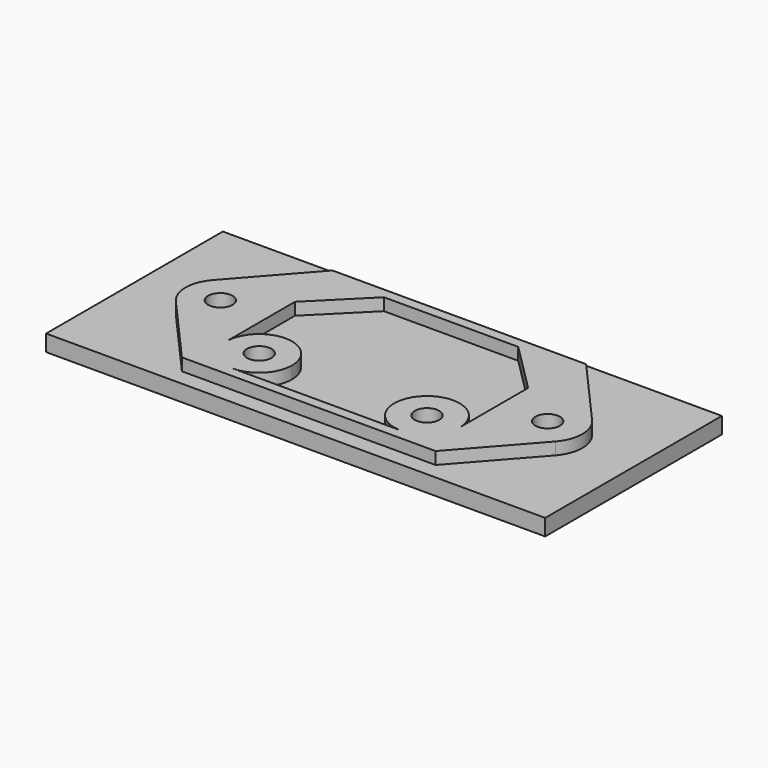
from build123d import *

# Parameters (mm, degrees)
F0_W     = 61
F0_H     = 27
F0_R     = 1.5
F0_W_2   = 31
F0_H_2   = 23
F1_DEPTH = 2
F2_DEPTH = 3.5


with BuildPart() as f1:
    # F0 (on Top) → F1 (new body)
    with BuildSketch(Plane.XY):
        Rectangle(F0_W, F0_H)
        with BuildLine():
            Line((23.18302, -2.816182), (15.5, -11.5))
            Line((15.5, -11.5), (-15.5, -11.5))
            Line((-15.5, -11.5), (-23.18302, -2.816182))
            ThreePointArc((-23.18302, -2.816182), (-24.25, 0), (-23.18302, 2.816182))
            Line((-23.18302, 2.816182), (-15.5, 11.5))
            Line((-15.5, 11.5), (15.5, 11.5))
            Line((15.5, 11.5), (23.18302, 2.816182))
            ThreePointArc((23.18302, 2.816182), (24.25, 0), (23.18302, -2.816182))
        make_face(mode=Mode.SUBTRACT)
        with BuildLine():
            Line((-23.18302, -2.816182), (-15.5, -11.5))
            Line((-15.5, -11.5), (-15.5, 11.5))
            Line((-15.5, 11.5), (-23.18302, 2.816182))
            ThreePointArc((-23.18302, 2.816182), (-24.25, 0), (-23.18302, -2.816182))
        make_face()
        with Locations((-20, 0)):
            Circle(F0_R, mode=Mode.SUBTRACT)
        with BuildLine():
            Line((-8.313508, -9.75), (8.313508, -9.75))
            ThreePointArc((8.313508, -9.75), (7.421573, -3.421573), (13.75, -4.313508))
            Line((13.75, -4.313508), (13.75, 4))
            Line((13.75, 4), (8, 9.75))
            Line((8, 9.75), (-8, 9.75))
            Line((-8, 9.75), (-13.75, 4))
            Line((-13.75, 4), (-13.75, -4.313508))
            ThreePointArc((-13.75, -4.313508), (-9.25, -2.377017), (-6.25, -6.25))
            ThreePointArc((-6.25, -6.25), (-6.80428, -8.281506), (-8.313508, -9.75))
        make_face()
        Rectangle(F0_W_2, F0_H_2)
        with BuildLine():
            ThreePointArc((14.25, -6.25), (13.078427, -9.078427), (10.25, -10.25))
            Line((10.25, -10.25), (-10.25, -10.25))
            ThreePointArc((-10.25, -10.25), (-13.078427, -9.078427), (-14.25, -6.25))
            Line((-14.25, -6.25), (-14.25, 4.207107))
            Line((-14.25, 4.207107), (-8.207107, 10.25))
            Line((-8.207107, 10.25), (8.207107, 10.25))
            Line((8.207107, 10.25), (14.25, 4.207107))
            Line((14.25, 4.207107), (14.25, -6.25))
        make_face(mode=Mode.SUBTRACT)
        with BuildLine():
            ThreePointArc((10.25, -10.25), (9.25, -10.122983), (8.313508, -9.75))
            Line((8.313508, -9.75), (-8.313508, -9.75))
            ThreePointArc((-8.313508, -9.75), (-9.25, -10.122983), (-10.25, -10.25))
            Line((-10.25, -10.25), (10.25, -10.25))
        make_face()
        with BuildLine():
            Line((15.5, 11.5), (15.5, -11.5))
            Line((15.5, -11.5), (23.18302, -2.816182))
            ThreePointArc((23.18302, -2.816182), (24.25, 0), (23.18302, 2.816182))
            Line((23.18302, 2.816182), (15.5, 11.5))
        make_face()
        with Locations((20, 0)):
            Circle(F0_R, mode=Mode.SUBTRACT)
        with BuildLine():
            Line((-8.313508, -9.75), (8.313508, -9.75))
            ThreePointArc((8.313508, -9.75), (7.421573, -3.421573), (13.75, -4.313508))
            Line((13.75, -4.313508), (13.75, 4))
            Line((13.75, 4), (8, 9.75))
            Line((8, 9.75), (-8, 9.75))
            Line((-8, 9.75), (-13.75, 4))
            Line((-13.75, 4), (-13.75, -4.313508))
            ThreePointArc((-13.75, -4.313508), (-9.25, -2.377017), (-6.25, -6.25))
            ThreePointArc((-6.25, -6.25), (-6.80428, -8.281506), (-8.313508, -9.75))
        make_face()
        with BuildLine():
            Line((13.75, 4), (13.75, -4.313508))
            ThreePointArc((13.75, -4.313508), (14.122983, -5.25), (14.25, -6.25))
            Line((14.25, -6.25), (14.25, 4.207107))
            Line((14.25, 4.207107), (8.207107, 10.25))
            Line((8.207107, 10.25), (-8.207107, 10.25))
            Line((-8.207107, 10.25), (-14.25, 4.207107))
            Line((-14.25, 4.207107), (-14.25, -6.25))
            ThreePointArc((-14.25, -6.25), (-14.122983, -5.25), (-13.75, -4.313508))
            Line((-13.75, -4.313508), (-13.75, 4))
            Line((-13.75, 4), (-8, 9.75))
            Line((-8, 9.75), (8, 9.75))
            Line((8, 9.75), (13.75, 4))
        make_face()
        with BuildLine():
            ThreePointArc((-10.25, -10.25), (-9.25, -10.122983), (-8.313508, -9.75))
            Line((-8.313508, -9.75), (-10.25, -9.75))
            ThreePointArc((-10.25, -9.75), (-12.724874, -8.724874), (-13.75, -6.25))
            Line((-13.75, -6.25), (-13.75, -4.313508))
            ThreePointArc((-13.75, -4.313508), (-14.122983, -5.25), (-14.25, -6.25))
            ThreePointArc((-14.25, -6.25), (-13.078427, -9.078427), (-10.25, -10.25))
        make_face()
        with BuildLine():
            ThreePointArc((13.75, -6.25), (12.724874, -8.724874), (10.25, -9.75))
            Line((10.25, -9.75), (8.313508, -9.75))
            ThreePointArc((8.313508, -9.75), (9.25, -10.122983), (10.25, -10.25))
            ThreePointArc((10.25, -10.25), (13.078427, -9.078427), (14.25, -6.25))
            ThreePointArc((14.25, -6.25), (14.122983, -5.25), (13.75, -4.313508))
            Line((13.75, -4.313508), (13.75, -6.25))
        make_face()
    extrude(amount=F1_DEPTH)

    # F0 (on Top) → F2 (join)
    with BuildSketch(Plane.XY):
        with BuildLine():
            Line((-23.18302, -2.816182), (-15.5, -11.5))
            Line((-15.5, -11.5), (-15.5, 11.5))
            Line((-15.5, 11.5), (-23.18302, 2.816182))
            ThreePointArc((-23.18302, 2.816182), (-24.25, 0), (-23.18302, -2.816182))
        make_face()
        with Locations((-20, 0)):
            Circle(F0_R, mode=Mode.SUBTRACT)
        Rectangle(F0_W_2, F0_H_2)
        with BuildLine():
            ThreePointArc((14.25, -6.25), (13.078427, -9.078427), (10.25, -10.25))
            Line((10.25, -10.25), (-10.25, -10.25))
            ThreePointArc((-10.25, -10.25), (-13.078427, -9.078427), (-14.25, -6.25))
            Line((-14.25, -6.25), (-14.25, 4.207107))
            Line((-14.25, 4.207107), (-8.207107, 10.25))
            Line((-8.207107, 10.25), (8.207107, 10.25))
            Line((8.207107, 10.25), (14.25, 4.207107))
            Line((14.25, 4.207107), (14.25, -6.25))
        make_face(mode=Mode.SUBTRACT)
        with BuildLine():
            Line((15.5, 11.5), (15.5, -11.5))
            Line((15.5, -11.5), (23.18302, -2.816182))
            ThreePointArc((23.18302, -2.816182), (24.25, 0), (23.18302, 2.816182))
            Line((23.18302, 2.816182), (15.5, 11.5))
        make_face()
        with Locations((20, 0)):
            Circle(F0_R, mode=Mode.SUBTRACT)
        with BuildLine():
            Line((-10.25, -9.75), (-8.313508, -9.75))
            ThreePointArc((-8.313508, -9.75), (-6.80428, -8.281506), (-6.25, -6.25))
            ThreePointArc((-6.25, -6.25), (-9.25, -2.377017), (-13.75, -4.313508))
            Line((-13.75, -4.313508), (-13.75, -6.25))
            ThreePointArc((-13.75, -6.25), (-12.724874, -8.724874), (-10.25, -9.75))
        make_face()
        with Locations((-10.25, -6.25)):
            Circle(F0_R, mode=Mode.SUBTRACT)
        with BuildLine():
            ThreePointArc((-10.25, -10.25), (-9.25, -10.122983), (-8.313508, -9.75))
            Line((-8.313508, -9.75), (-10.25, -9.75))
            ThreePointArc((-10.25, -9.75), (-12.724874, -8.724874), (-13.75, -6.25))
            Line((-13.75, -6.25), (-13.75, -4.313508))
            ThreePointArc((-13.75, -4.313508), (-14.122983, -5.25), (-14.25, -6.25))
            ThreePointArc((-14.25, -6.25), (-13.078427, -9.078427), (-10.25, -10.25))
        make_face()
        with BuildLine():
            Line((8.313508, -9.75), (10.25, -9.75))
            ThreePointArc((10.25, -9.75), (12.724874, -8.724874), (13.75, -6.25))
            Line((13.75, -6.25), (13.75, -4.313508))
            ThreePointArc((13.75, -4.313508), (7.421573, -3.421573), (8.313508, -9.75))
        make_face()
        with Locations((10.25, -6.25)):
            Circle(F0_R, mode=Mode.SUBTRACT)
        with BuildLine():
            ThreePointArc((13.75, -6.25), (12.724874, -8.724874), (10.25, -9.75))
            Line((10.25, -9.75), (8.313508, -9.75))
            ThreePointArc((8.313508, -9.75), (9.25, -10.122983), (10.25, -10.25))
            ThreePointArc((10.25, -10.25), (13.078427, -9.078427), (14.25, -6.25))
            ThreePointArc((14.25, -6.25), (14.122983, -5.25), (13.75, -4.313508))
            Line((13.75, -4.313508), (13.75, -6.25))
        make_face()
    extrude(amount=F2_DEPTH)


solid = f1.part
